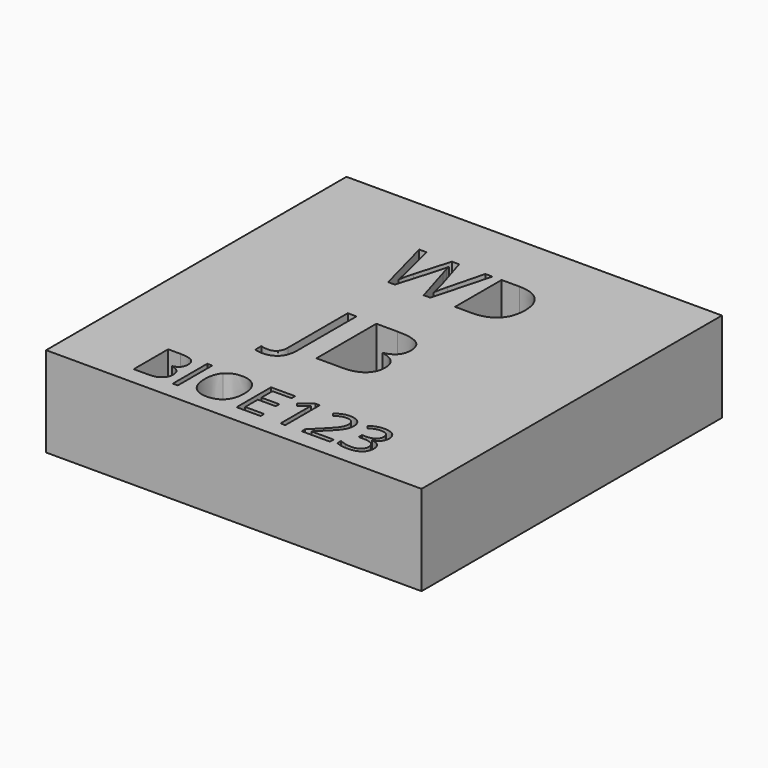
from build123d import *

# Parameters (mm, degrees)
F0_W     = 25
F0_H     = 25
F0_W_2   = 0.3332941038
F0_H_2   = 2.8678357067
F1_DEPTH = 6


with BuildPart() as f1:
    # F0 (on Top) → F1 (new body)
    with BuildSketch(Plane.XY):
        Rectangle(F0_W, F0_H)
        with BuildLine():
            Line((-7.6058216625, -11.325103854), (-7.6058216625, -8.4572681473))
            Line((-7.6058216625, -8.4572681473), (-6.7954964497, -8.4572681473))
            add(Edge.make_bspline(
                [(-6.7954964497, -8.4572681473), (-6.2249421364, -8.4572681473), (-5.9697932604, -8.6279950705)],
                knots=[0, 0, 0, 1, 1, 1], degree=2))
            add(Edge.make_bspline(
                [(-5.9697932604, -8.6279950705), (-5.7146443843, -8.7987219937), (-5.7146443843, -9.1671657582)],
                knots=[0, 0, 0, 1, 1, 1], degree=2))
            add(Edge.make_bspline(
                [(-5.7146443843, -9.1671657582), (-5.7146443843, -9.4226284705), (-5.8568122082, -9.5883340136)],
                knots=[0, 0, 0, 1, 1, 1], degree=2))
            add(Edge.make_bspline(
                [(-5.8568122082, -9.5883340136), (-5.9989800322, -9.7540395568), (-6.2720175748, -9.8029980127)],
                knots=[0, 0, 0, 1, 1, 1], degree=2))
            Line((-6.2720175748, -9.8029980127), (-6.2720175748, -9.8224558606))
            add(Edge.make_bspline(
                [(-6.2720175748, -9.8224558606), (-5.61861049, -9.9341815677), (-5.61861049, -10.5091295886)],
                knots=[0, 0, 0, 1, 1, 1], degree=2))
            add(Edge.make_bspline(
                [(-5.61861049, -10.5091295886), (-5.61861049, -10.8932651658), (-5.8784669099, -11.1091845099)],
                knots=[0, 0, 0, 1, 1, 1], degree=2))
            add(Edge.make_bspline(
                [(-5.8784669099, -11.1091845099), (-6.1383233298, -11.325103854), (-6.6053116786, -11.325103854)],
                knots=[0, 0, 0, 1, 1, 1], degree=2))
            Line((-6.6053116786, -11.325103854), (-7.6058216625, -11.325103854))
        make_face(mode=Mode.SUBTRACT)
        with Locations((-4.8362167039, -9.8911860006)):
            Rectangle(F0_W_2, F0_H_2, mode=Mode.SUBTRACT)
        with BuildLine():
            add(Edge.make_bspline(
                [(-1.7408497117, -8.8043710463), (-1.3937468126, -9.1966663662), (-1.3937468126, -9.8871061293)],
                knots=[0, 0, 0, 1, 1, 1], degree=2))
            add(Edge.make_bspline(
                [(-1.3937468126, -9.8871061293), (-1.3937468126, -10.5756628748), (-1.7421050567, -10.9701550485)],
                knots=[0, 0, 0, 1, 1, 1], degree=2))
            add(Edge.make_bspline(
                [(-1.7421050567, -10.9701550485), (-2.0904633008, -11.3646472222), (-2.70997607, -11.3646472222)],
                knots=[0, 0, 0, 1, 1, 1], degree=2))
            add(Edge.make_bspline(
                [(-2.70997607, -11.3646472222), (-3.3432976345, -11.3646472222), (-3.6875760072, -10.9770594461)],
                knots=[0, 0, 0, 1, 1, 1], degree=2))
            add(Edge.make_bspline(
                [(-3.6875760072, -10.9770594461), (-4.03185438, -10.5894716701), (-4.03185438, -9.8833400942)],
                knots=[0, 0, 0, 1, 1, 1], degree=2))
            add(Edge.make_bspline(
                [(-4.03185438, -9.8833400942), (-4.03185438, -9.182857571), (-3.6866344985, -8.7974666487)],
                knots=[0, 0, 0, 1, 1, 1], degree=2))
            add(Edge.make_bspline(
                [(-3.6866344985, -8.7974666487), (-3.3414146169, -8.4120757264), (-2.7062100349, -8.4120757264)],
                knots=[0, 0, 0, 1, 1, 1], degree=2))
            add(Edge.make_bspline(
                [(-2.7062100349, -8.4120757264), (-2.0879526107, -8.4120757264), (-1.7408497117, -8.8043710463)],
                knots=[0, 0, 0, 1, 1, 1], degree=2))
        make_face(mode=Mode.SUBTRACT)
        with BuildLine():
            add(Edge.make_bspline(
                [(-2.6001869741, -5.3887720916), (-2.9273917108, -5.7448799134), (-3.5414459333, -5.7448799134)],
                knots=[0, 0, 0, 1, 1, 1], degree=2))
            add(Edge.make_bspline(
                [(-3.5414459333, -5.7448799134), (-3.8610158928, -5.7448799134), (-4.0453412278, -5.6532625871)],
                knots=[0, 0, 0, 1, 1, 1], degree=2))
            Line((-4.0453412278, -5.6532625871), (-4.0453412278, -5.1591834347))
            add(Edge.make_bspline(
                [(-4.0453412278, -5.1591834347), (-3.8032097227, -5.226805747), (-3.5414459333, -5.226805747)],
                knots=[0, 0, 0, 1, 1, 1], degree=2))
            add(Edge.make_bspline(
                [(-3.5414459333, -5.226805747), (-3.2033343721, -5.226805747), (-3.0277344967, -5.0223027865)],
                knots=[0, 0, 0, 1, 1, 1], degree=2))
            add(Edge.make_bspline(
                [(-3.0277344967, -5.0223027865), (-2.8521346214, -4.8177998261), (-2.8521346214, -4.4327889193)],
                knots=[0, 0, 0, 1, 1, 1], degree=2))
            Line((-2.8521346214, -4.4327889193), (-2.8521346214, 0.5505392203))
            Line((-2.8521346214, 0.5505392203), (-2.2729822375, 0.5505392203))
            Line((-2.2729822375, 0.5505392203), (-2.2729822375, -4.3847988912))
            add(Edge.make_bspline(
                [(-2.2729822375, -4.3847988912), (-2.2729822375, -5.0326642699), (-2.6001869741, -5.3887720916)],
                knots=[0, 0, 0, 1, 1, 1], degree=2))
        make_face(mode=Mode.SUBTRACT)
        Polygon((0.8439056922, -11.0269594108), (0.8439056922, -11.325103854), (-0.7547761955, -11.325103854), (-0.7547761955, -8.4572681473), (0.8439056922, -8.4572681473), (0.8439056922, -8.7535295729), (-0.4214820917, -8.7535295729), (-0.4214820917, -9.6774635103), (0.7673296458, -9.6774635103), (0.7673296458, -9.9718419184), (-0.4214820917, -9.9718419184), (-0.4214820917, -11.0269594108), align=None, mode=Mode.SUBTRACT)
        with BuildLine():
            Line((2.4871523283, -8.4572681473), (2.4871523283, -11.325103854))
            Line((2.4871523283, -11.325103854), (2.1695500373, -11.325103854))
            Line((2.1695500373, -11.325103854), (2.1695500373, -9.2814021553))
            add(Edge.make_bspline(
                [(2.1695500373, -9.2814021553), (2.1695500373, -9.025939443), (2.1852418501, -8.7987219937)],
                knots=[0, 0, 0, 1, 1, 1], degree=2))
            add(Edge.make_bspline(
                [(2.1852418501, -8.7987219937), (2.1444431368, -8.8401483795), (2.0932878271, -8.8850269641)],
                knots=[0, 0, 0, 1, 1, 1], degree=2))
            add(Edge.make_bspline(
                [(2.0932878271, -8.8850269641), (2.0421325174, -8.9299055487), (1.6266133145, -9.2675933601)],
                knots=[0, 0, 0, 1, 1, 1], degree=2))
            Line((1.6266133145, -9.2675933601), (1.4540033737, -9.0441419459))
            Line((1.4540033737, -9.0441419459), (2.2128594406, -8.4572681473))
            Line((2.2128594406, -8.4572681473), (2.4871523283, -8.4572681473))
        make_face(mode=Mode.SUBTRACT)
        with BuildLine():
            Line((5.462947707, -11.0231933758), (5.462947707, -11.325103854))
            Line((5.462947707, -11.325103854), (3.5780471539, -11.325103854))
            Line((3.5780471539, -11.325103854), (3.5780471539, -11.0445342412))
            Line((3.5780471539, -11.0445342412), (4.3331371857, -10.2856781743))
            add(Edge.make_bspline(
                [(4.3331371857, -10.2856781743), (4.6783570672, -9.9360645852), (4.7881997568, -9.7869923636)],
                knots=[0, 0, 0, 1, 1, 1], degree=2))
            add(Edge.make_bspline(
                [(4.7881997568, -9.7869923636), (4.8980424464, -9.6379201421), (4.9529637911, -9.4966938269)],
                knots=[0, 0, 0, 1, 1, 1], degree=2))
            add(Edge.make_bspline(
                [(4.9529637911, -9.4966938269), (5.0078851359, -9.3554675117), (5.0078851359, -9.1929003312)],
                knots=[0, 0, 0, 1, 1, 1], degree=2))
            add(Edge.make_bspline(
                [(5.0078851359, -9.1929003312), (5.0078851359, -8.9631721918), (4.8685418383, -8.8288502743)],
                knots=[0, 0, 0, 1, 1, 1], degree=2))
            add(Edge.make_bspline(
                [(4.8685418383, -8.8288502743), (4.7291985407, -8.6945283567), (4.481895571, -8.6945283567)],
                knots=[0, 0, 0, 1, 1, 1], degree=2))
            add(Edge.make_bspline(
                [(4.481895571, -8.6945283567), (4.3036365776, -8.6945283567), (4.1435800871, -8.7535295729)],
                knots=[0, 0, 0, 1, 1, 1], degree=2))
            add(Edge.make_bspline(
                [(4.1435800871, -8.7535295729), (3.9835235966, -8.812530789), (3.7876897729, -8.9675658994)],
                knots=[0, 0, 0, 1, 1, 1], degree=2))
            Line((3.7876897729, -8.9675658994), (3.6150798321, -8.7459975027))
            add(Edge.make_bspline(
                [(3.6150798321, -8.7459975027), (4.0111411871, -8.416469434), (4.4781295359, -8.416469434)],
                knots=[0, 0, 0, 1, 1, 1], degree=2))
            add(Edge.make_bspline(
                [(4.4781295359, -8.416469434), (4.8823506336, -8.416469434), (5.1117649366, -8.6232875266)],
                knots=[0, 0, 0, 1, 1, 1], degree=2))
            add(Edge.make_bspline(
                [(5.1117649366, -8.6232875266), (5.3411792397, -8.8301056193), (5.3411792397, -9.1790915359)],
                knots=[0, 0, 0, 1, 1, 1], degree=2))
            add(Edge.make_bspline(
                [(5.3411792397, -9.1790915359), (5.3411792397, -9.4521290786), (5.1880271468, -9.7188898961)],
                knots=[0, 0, 0, 1, 1, 1], degree=2))
            add(Edge.make_bspline(
                [(5.1880271468, -9.7188898961), (5.0348750539, -9.9856507137), (4.615589816, -10.3936378464)],
                knots=[0, 0, 0, 1, 1, 1], degree=2))
            Line((4.615589816, -10.3936378464), (3.9879173041, -11.007501563))
            Line((3.9879173041, -11.007501563), (3.9879173041, -11.0231933758))
            Line((3.9879173041, -11.0231933758), (5.462947707, -11.0231933758))
        make_face(mode=Mode.SUBTRACT)
        with BuildLine():
            add(Edge.make_bspline(
                [(7.420030599, -8.6075957138), (7.6516417559, -8.7987219937), (7.6516417559, -9.1320160975)],
                knots=[0, 0, 0, 1, 1, 1], degree=2))
            add(Edge.make_bspline(
                [(7.6516417559, -9.1320160975), (7.6516417559, -9.4069366577), (7.4975481543, -9.581429616)],
                knots=[0, 0, 0, 1, 1, 1], degree=2))
            add(Edge.make_bspline(
                [(7.4975481543, -9.581429616), (7.3434545526, -9.7559225743), (7.0610019222, -9.8149237904)],
                knots=[0, 0, 0, 1, 1, 1], degree=2))
            Line((7.0610019222, -9.8149237904), (7.0610019222, -9.8306156032))
            add(Edge.make_bspline(
                [(7.0610019222, -9.8306156032), (7.4062218038, -9.873297334), (7.5728688557, -10.0499871461)],
                knots=[0, 0, 0, 1, 1, 1], degree=2))
            add(Edge.make_bspline(
                [(7.5728688557, -10.0499871461), (7.7395159076, -10.2266769582), (7.7395159076, -10.5128956236)],
                knots=[0, 0, 0, 1, 1, 1], degree=2))
            add(Edge.make_bspline(
                [(7.7395159076, -10.5128956236), (7.7395159076, -10.9227657739), (7.4551802597, -11.143706498)],
                knots=[0, 0, 0, 1, 1, 1], degree=2))
            add(Edge.make_bspline(
                [(7.4551802597, -11.143706498), (7.1708446118, -11.3646472222), (6.6473657369, -11.3646472222)],
                knots=[0, 0, 0, 1, 1, 1], degree=2))
            add(Edge.make_bspline(
                [(6.6473657369, -11.3646472222), (6.4195206151, -11.3646472222), (6.2302773528, -11.3301252341)],
                knots=[0, 0, 0, 1, 1, 1], degree=2))
            add(Edge.make_bspline(
                [(6.2302773528, -11.3301252341), (6.0410340905, -11.2956032459), (5.8627750971, -11.2096121118)],
                knots=[0, 0, 0, 1, 1, 1], degree=2))
            Line((5.8627750971, -11.2096121118), (5.8627750971, -10.8995418909))
            add(Edge.make_bspline(
                [(5.8627750971, -10.8995418909), (6.0491938331, -10.9918097502), (6.2600917971, -11.0398266973)],
                knots=[0, 0, 0, 1, 1, 1], degree=2))
            add(Edge.make_bspline(
                [(6.2600917971, -11.0398266973), (6.4709897611, -11.0878436445), (6.6592915147, -11.0878436445)],
                knots=[0, 0, 0, 1, 1, 1], degree=2))
            add(Edge.make_bspline(
                [(6.6592915147, -11.0878436445), (7.4024557687, -11.0878436445), (7.4024557687, -10.5053635535)],
                knots=[0, 0, 0, 1, 1, 1], degree=2))
            add(Edge.make_bspline(
                [(7.4024557687, -10.5053635535), (7.4024557687, -9.9831400236), (6.5827154682, -9.9831400236)],
                knots=[0, 0, 0, 1, 1, 1], degree=2))
            Line((6.5827154682, -9.9831400236), (6.3002628379, -9.9831400236))
            Line((6.3002628379, -9.9831400236), (6.3002628379, -9.7031980833))
            Line((6.3002628379, -9.7031980833), (6.5864815033, -9.7031980833))
            add(Edge.make_bspline(
                [(6.5864815033, -9.7031980833), (6.9216586246, -9.7031980833), (7.1178062846, -9.5550673705)],
                knots=[0, 0, 0, 1, 1, 1], degree=2))
            add(Edge.make_bspline(
                [(7.1178062846, -9.5550673705), (7.3139539445, -9.4069366577), (7.3139539445, -9.1439418752)],
                knots=[0, 0, 0, 1, 1, 1], degree=2))
            add(Edge.make_bspline(
                [(7.3139539445, -9.1439418752), (7.3139539445, -8.9342992563), (7.1699031031, -8.8144138065)],
                knots=[0, 0, 0, 1, 1, 1], degree=2))
            add(Edge.make_bspline(
                [(7.1699031031, -8.8144138065), (7.0258522616, -8.6945283567), (6.7785492919, -8.6945283567)],
                knots=[0, 0, 0, 1, 1, 1], degree=2))
            add(Edge.make_bspline(
                [(6.7785492919, -8.6945283567), (6.5902475383, -8.6945283567), (6.4236004864, -8.7456836665)],
                knots=[0, 0, 0, 1, 1, 1], degree=2))
            add(Edge.make_bspline(
                [(6.4236004864, -8.7456836665), (6.2569534345, -8.7968389762), (6.042917108, -8.9342992563)],
                knots=[0, 0, 0, 1, 1, 1], degree=2))
            Line((6.042917108, -8.9342992563), (5.8784669099, -8.7146138771))
            add(Edge.make_bspline(
                [(5.8784669099, -8.7146138771), (6.0548428857, -8.5752705795), (6.2851986976, -8.4958700067)],
                knots=[0, 0, 0, 1, 1, 1], degree=2))
            add(Edge.make_bspline(
                [(6.2851986976, -8.4958700067), (6.5155545094, -8.416469434), (6.7710172218, -8.416469434)],
                knots=[0, 0, 0, 1, 1, 1], degree=2))
            add(Edge.make_bspline(
                [(6.7710172218, -8.416469434), (7.1884194422, -8.416469434), (7.420030599, -8.6075957138)],
                knots=[0, 0, 0, 1, 1, 1], degree=2))
        make_face(mode=Mode.SUBTRACT)
        with BuildLine():
            Line((-0.9510751013, -4.4327889193), (-0.9510751013, 0.5505392203))
            Line((-0.9510751013, 0.5505392203), (0.4569959489, 0.5505392203))
            add(Edge.make_bspline(
                [(0.4569959489, 0.5505392203), (1.448426301, 0.5505392203), (1.8917887192, 0.2538735924)],
                knots=[0, 0, 0, 1, 1, 1], degree=2))
            add(Edge.make_bspline(
                [(1.8917887192, 0.2538735924), (2.3351511374, -0.0427920355), (2.3351511374, -0.683022637)],
                knots=[0, 0, 0, 1, 1, 1], degree=2))
            add(Edge.make_bspline(
                [(2.3351511374, -0.683022637), (2.3351511374, -1.1269303964), (2.0881115612, -1.4148705647)],
                knots=[0, 0, 0, 1, 1, 1], degree=2))
            add(Edge.make_bspline(
                [(2.0881115612, -1.4148705647), (1.841071985, -1.7028107329), (1.3666251169, -1.7878839645)],
                knots=[0, 0, 0, 1, 1, 1], degree=2))
            Line((1.3666251169, -1.7878839645), (1.3666251169, -1.8216951206))
            add(Edge.make_bspline(
                [(1.3666251169, -1.8216951206), (2.5020255531, -2.0158365977), (2.5020255531, -3.014901727)],
                knots=[0, 0, 0, 1, 1, 1], degree=2))
            add(Edge.make_bspline(
                [(2.5020255531, -3.014901727), (2.5020255531, -3.6823993898), (2.0504830165, -4.0575941546)],
                knots=[0, 0, 0, 1, 1, 1], degree=2))
            add(Edge.make_bspline(
                [(2.0504830165, -4.0575941546), (1.5989404799, -4.4327889193), (0.7874727329, -4.4327889193)],
                knots=[0, 0, 0, 1, 1, 1], degree=2))
            Line((0.7874727329, -4.4327889193), (-0.9510751013, -4.4327889193))
        make_face(mode=Mode.SUBTRACT)
        with BuildLine():
            Line((0.4497880358, 8.4669335846), (-0.5862929816, 4.5930758361))
            Line((-0.5862929816, 4.5930758361), (-1.031417805, 4.5930758361))
            Line((-1.031417805, 4.5930758361), (-1.8131417805, 7.1866698069))
            add(Edge.make_bspline(
                [(-1.8131417805, 7.1866698069), (-1.8691003297, 7.3596325954), (-1.937776731, 7.6216203486)],
                knots=[0, 0, 0, 1, 1, 1], degree=2))
            add(Edge.make_bspline(
                [(-1.937776731, 7.6216203486), (-2.0064531324, 7.8836081017), (-2.0089967028, 7.9370230805)],
                knots=[0, 0, 0, 1, 1, 1], degree=2))
            add(Edge.make_bspline(
                [(-2.0089967028, 7.9370230805), (-2.0674988224, 7.5868582195), (-2.1946773434, 7.1714083844)],
                knots=[0, 0, 0, 1, 1, 1], degree=2))
            Line((-2.1946773434, 7.1714083844), (-2.9526613283, 4.5930758361))
            Line((-2.9526613283, 4.5930758361), (-3.3977861517, 4.5930758361))
            Line((-3.3977861517, 4.5930758361), (-4.4287800283, 8.4669335846))
            Line((-4.4287800283, 8.4669335846), (-3.9514366463, 8.4669335846))
            Line((-3.9514366463, 8.4669335846), (-3.339284032, 6.0742816769))
            add(Edge.make_bspline(
                [(-3.339284032, 6.0742816769), (-3.2121055111, 5.5706547339), (-3.1536033914, 5.16283561)],
                knots=[0, 0, 0, 1, 1, 1], degree=2))
            add(Edge.make_bspline(
                [(-3.1536033914, 5.16283561), (-3.0823834197, 5.6478097033), (-2.9416391898, 6.1115873764)],
                knots=[0, 0, 0, 1, 1, 1], degree=2))
            Line((-2.9416391898, 6.1115873764), (-2.2480923222, 8.4669335846))
            Line((-2.2480923222, 8.4669335846), (-1.7707489402, 8.4669335846))
            Line((-1.7707489402, 8.4669335846), (-1.0424399435, 6.0903909562))
            add(Edge.make_bspline(
                [(-1.0424399435, 6.0903909562), (-0.9152614225, 5.6791804051), (-0.8279321715, 5.16283561)],
                knots=[0, 0, 0, 1, 1, 1], degree=2))
            add(Edge.make_bspline(
                [(-0.8279321715, 5.16283561), (-0.7770607631, 5.539284032), (-0.63716439, 6.0793688177)],
                knots=[0, 0, 0, 1, 1, 1], degree=2))
            Line((-0.63716439, 6.0793688177), (-0.0275553462, 8.4669335846))
            Line((-0.0275553462, 8.4669335846), (0.4497880358, 8.4669335846))
        make_face(mode=Mode.SUBTRACT)
        with BuildLine():
            add(Edge.make_bspline(
                [(3.6474799812, 7.9662741404), (4.1481394253, 7.4656146962), (4.1481394253, 6.5668864814)],
                knots=[0, 0, 0, 1, 1, 1], degree=2))
            add(Edge.make_bspline(
                [(4.1481394253, 6.5668864814), (4.1481394253, 5.6079604333), (3.6275553462, 5.1005181347)],
                knots=[0, 0, 0, 1, 1, 1], degree=2))
            add(Edge.make_bspline(
                [(3.6275553462, 5.1005181347), (3.1069712671, 4.5930758361), (2.1293923693, 4.5930758361)],
                knots=[0, 0, 0, 1, 1, 1], degree=2))
            Line((2.1293923693, 4.5930758361), (1.0560056524, 4.5930758361))
            Line((1.0560056524, 4.5930758361), (1.0560056524, 8.4669335846))
            Line((1.0560056524, 8.4669335846), (2.2430051813, 8.4669335846))
            add(Edge.make_bspline(
                [(2.2430051813, 8.4669335846), (3.146820537, 8.4669335846), (3.6474799812, 7.9662741404)],
                knots=[0, 0, 0, 1, 1, 1], degree=2))
        make_face(mode=Mode.SUBTRACT)
    extrude(amount=F1_DEPTH)


solid = f1.part
